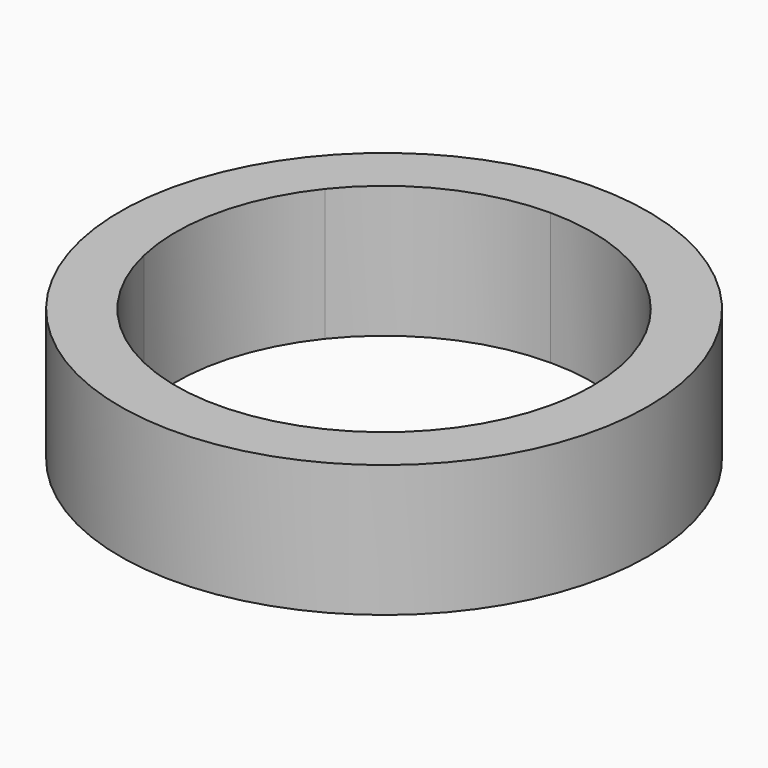
from build123d import *

# Parameters (mm, degrees)
F0_R     = 20
F1_DEPTH = 10


with BuildPart() as f1:
    # F0 (on Top) → F1 (new body)
    with BuildSketch(Plane.XY):
        Circle(F0_R)
        with BuildLine():
            ThreePointArc((15.781426, 0), (15.682196, -1.766959), (15.385753, -3.511698))
            ThreePointArc((15.385753, -3.511698), (12.338416, -9.839558), (6.847304, -14.218574))
            ThreePointArc((6.847304, -14.218574), (0, -15.781426), (-6.847304, -14.218574))
            ThreePointArc((-6.847304, -14.218574), (-12.338416, -9.839558), (-15.385753, -3.511698))
            ThreePointArc((-15.385753, -3.511698), (-15.385753, 3.511698), (-12.338416, 9.839558))
            ThreePointArc((-12.338416, 9.839558), (-6.847304, 14.218574), (0, 15.781426))
            ThreePointArc((0, 15.781426), (6.847304, 14.218574), (12.338416, 9.839558))
            ThreePointArc((12.338416, 9.839558), (14.895825, 5.212275), (15.781426, 0))
        make_face(mode=Mode.SUBTRACT)
    extrude(amount=F1_DEPTH)


solid = f1.part
